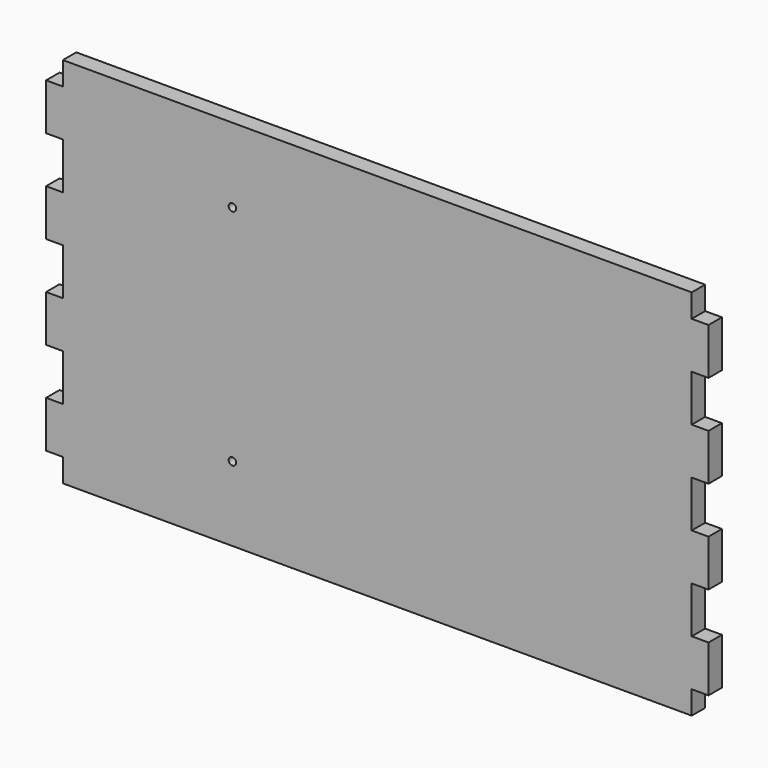
from build123d import *

# Parameters (mm, degrees)
F1_DEPTH = 18
F2_R     = 4
F3_DEPTH = 14


with BuildPart() as f1:
    # F0 (on Front) → F1 (new body)
    with BuildSketch(Plane.XZ):
        Polygon((337.5, 194.205903), (-337.5, 194.205903), (-337.5, 169.205903), (-355.5, 169.205903), (-355.5, 119.205903), (-337.5, 119.205903), (-337.5, 69.205903), (-355.5, 69.205903), (-355.5, 19.205903), (-337.5, 19.205903), (-337.5, -30.794097), (-355.5, -30.794097), (-355.5, -80.794097), (-337.5, -80.794097), (-337.5, -130.794097), (-355.5, -130.794097), (-355.5, -180.794097), (-337.5, -180.794097), (-337.5, -205.794097), (337.5, -205.794097), (337.5, -180.794097), (355.5, -180.794097), (355.5, -130.794097), (337.5, -130.794097), (337.5, -80.794097), (355.5, -80.794097), (355.5, -30.794097), (337.5, -30.794097), (337.5, 19.205903), (355.5, 19.205903), (355.5, 69.205903), (337.5, 69.205903), (337.5, 119.205903), (355.5, 119.205903), (355.5, 169.205903), (337.5, 169.205903), align=None)
    extrude(amount=F1_DEPTH)

    # F2 (on face) → F3 (cut)
    with BuildSketch(Plane.XZ.offset(18)):
        with Locations((-155.5, -125.794097)):
            Circle(F2_R)
        with Locations((-155.5, 114.205903)):
            Circle(F2_R)
    extrude(amount=-F3_DEPTH, mode=Mode.SUBTRACT)


solid = f1.part
